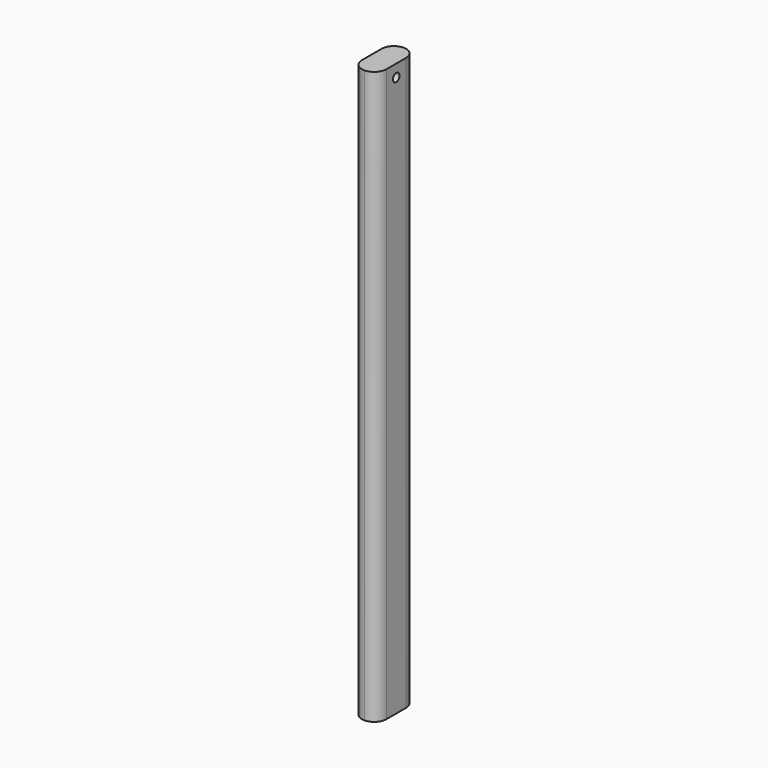
from build123d import *

# Parameters (mm, degrees)
F1_DEPTH = 700
F2_R     = 5
F3_DEPTH = 35


with BuildPart() as f1:
    # F0 (on Top) → F1 (new body)
    with BuildSketch(Plane.XY):
        with BuildLine():
            ThreePointArc((0, 30), (-10.606602, 25.606602), (-15, 15))
            Line((-15, 15), (-15, -15))
            ThreePointArc((-15, -15), (-10.606602, -25.606602), (0, -30))
            ThreePointArc((0, -30), (10.606602, -25.606602), (15, -15))
            Line((15, -15), (15, 15))
            ThreePointArc((15, 15), (10.606602, 25.606602), (0, 30))
        make_face()
    extrude(amount=-F1_DEPTH)

    # F2 (on face) → F3 (cut)
    with BuildSketch(Plane(origin=(-15, 0, 0), x_dir=(0, -1, 0), z_dir=(-1, 0, 0))):
        with Locations((0, -15)):
            Circle(F2_R)
    extrude(amount=-F3_DEPTH, mode=Mode.SUBTRACT)


solid = f1.part
